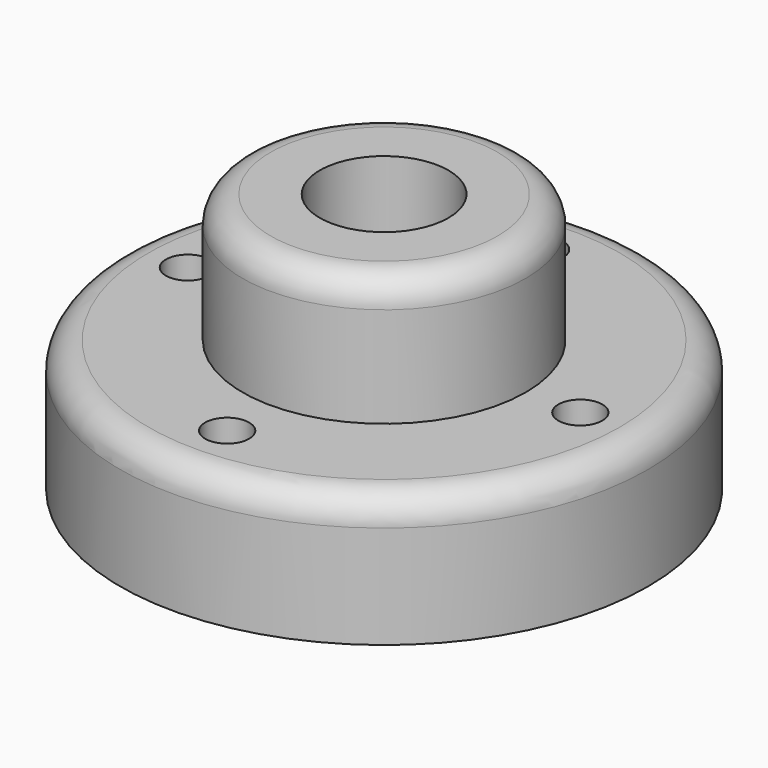
from build123d import *

# Parameters (mm, degrees)
F0_R     = 408.94
F0_R_2   = 185.801
F1_DEPTH = 749.3
F0_R_3   = 762
F0_R_4   = 63.5
F2_DEPTH = 378.46
F3_R     = 81.28
F4_R     = 81.28


with BuildPart() as f1:
    # F0 (on Top) → F1 (new body)
    with BuildSketch(Plane.XY):
        Circle(F0_R)
        Circle(F0_R_2, mode=Mode.SUBTRACT)
    extrude(amount=F1_DEPTH)

    # F0 (on Top) → F2 (join)
    with BuildSketch(Plane.XY):
        Circle(F0_R_3)
        with Locations((0, -566.42)):
            Circle(F0_R_4, mode=Mode.SUBTRACT)
        with Locations((-566.42, 0)):
            Circle(F0_R_4, mode=Mode.SUBTRACT)
        Circle(F0_R, mode=Mode.SUBTRACT)
        with Locations((566.42, 0)):
            Circle(F0_R_4, mode=Mode.SUBTRACT)
        with Locations((0, 566.42)):
            Circle(F0_R_4, mode=Mode.SUBTRACT)
    extrude(amount=F2_DEPTH)

    # F3
    f3_edges = [f1.edges().sort_by_distance(p)[0] for p in [
        (-408.94, 0, 749.3),
    ]]
    fillet(f3_edges, radius=F3_R)

    # F4
    f4_edges = [f1.edges().sort_by_distance(p)[0] for p in [
        (-762, 0, 378.46),
    ]]
    fillet(f4_edges, radius=F4_R)


solid = f1.part
